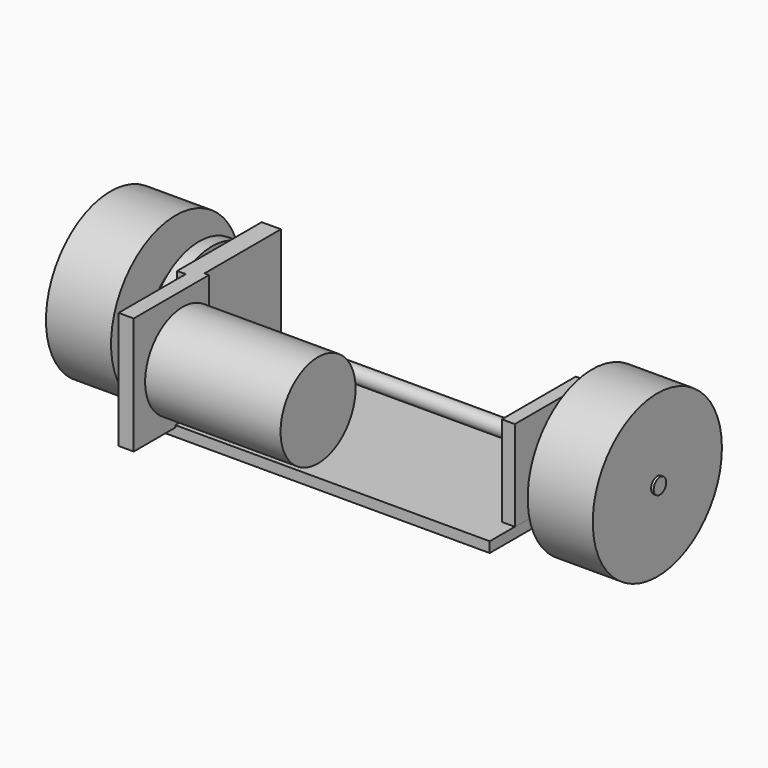
from build123d import *

# Parameters (mm, degrees)
F1_R      = 31
F2_DEPTH  = 25
F5_R      = 3
F6_DEPTH  = 106
F7_R      = 25.1
F8_DEPTH  = 5
F10_W     = 62
F10_H     = 4
F11_DEPTH = 65
F13_DEPTH = 45
F15_R     = 18
F16_DEPTH = 52
F18_R     = 3.526996
F19_DEPTH = 15
F22_W     = 35.481527
F22_H     = 34.792565
F23_DEPTH = 5


with BuildPart() as f2:
    # F1 (on Right) → F2 (new body)
    with BuildSketch(Plane.YZ):
        with Locations((0, 31)):
            Circle(F1_R)
    extrude(amount=F2_DEPTH)


with BuildPart() as f2_1:
    # F3: moved
    add(f2.part.moved(Location((80, 0, 0))))


with BuildPart() as f4_1:
    # F4: instance of F2
    add(f2_1.part.mirror(Plane.YZ))


with BuildPart() as f6:
    # F5 (on Right) → F6 (new body, symmetric)
    with BuildSketch(Plane.YZ):
        with Locations((0, 31)):
            Circle(F5_R)
    extrude(amount=F6_DEPTH, both=True)


with BuildPart() as f8:
    # F7 (on Right) → F8 (new body)
    with BuildSketch(Plane.YZ):
        with Locations((0, 31)):
            Circle(F7_R)
    extrude(amount=F8_DEPTH)


with BuildPart() as f8_1:
    # F9: moved
    add(f8.part.moved(Location((-76, 0, 0))))


with BuildPart() as f11:
    # F10 (on Right) → F11 (new body, symmetric)
    with BuildSketch(Plane.YZ):
        with Locations((0.53132, 9.346538)):
            Rectangle(F10_W, F10_H)
    extrude(amount=F11_DEPTH, both=True)


with BuildPart() as f13:
    # F12 (on offset) → F13 (new body)
    with BuildSketch(Plane.XY.offset(7.5)):
        Polygon((-62.484965, 22.414448), (-69.875456, 22.414448), (-69.875456, -18.169224), (-66.574976, -18.169224), (-66.574976, -50.419163), (-60.757942, -50.419163), (-60.757942, -14.257547), (-62.484965, -14.257547), align=None)
    extrude(amount=F13_DEPTH)


with BuildPart() as f13_1:
    # F14: moved
    add(f13.part.moved(Location((0, 0, 3))))


with BuildPart() as f16:
    # F15 (on Right) → F16 (new body)
    with BuildSketch(Plane.YZ):
        with Locations((-30.879457, 32.479201)):
            Circle(F15_R)
    extrude(amount=F16_DEPTH)


with BuildPart() as f16_1:
    # F17: moved
    add(f16.part.moved(Location((-60, 0, 0))))


with BuildPart() as f19:
    # F18 (on Right) → F19 (new body)
    with BuildSketch(Plane.YZ):
        with Locations((-30.622737, 32.000303)):
            Circle(F18_R)
    extrude(amount=F19_DEPTH)


with BuildPart() as f19_1:
    # F20: moved
    add(f19.part.moved(Location((-76, 0, 0))))


with BuildPart() as f19_2:
    # F21: moved
    add(f19_1.part.moved(Location((0, 3, 0))))


with BuildPart() as f16_2:
    # F21: moved
    add(f16_1.part.moved(Location((0, 3, 0))))


with BuildPart() as f23:
    # F22 (on Right) → F23 (new body)
    with BuildSketch(Plane.YZ):
        with Locations((-0.67508, 28.661907)):
            Rectangle(F22_W, F22_H)
    extrude(amount=F23_DEPTH)


with BuildPart() as f23_1:
    # F24: moved
    add(f23.part.moved(Location((65, 0, 0))))


with BuildPart() as f8_2:
    # F25: moved
    add(f8_1.part.moved(Location((5, 0, 0))))


with BuildPart() as f19_3:
    # F25: moved
    add(f19_2.part.moved(Location((5, 0, 0))))


with BuildPart() as f16_3:
    # F25: moved
    add(f16_2.part.moved(Location((5, 0, 0))))


with BuildPart() as f13_2:
    # F25: moved
    add(f13_1.part.moved(Location((5, 0, 0))))


with BuildPart() as f23_2:
    # F26: moved
    add(f23_1.part.moved(Location((-5, 0, 0))))


with BuildPart() as f28:
    # F27 (on Front) → F28 (revolve)
    with BuildSketch(Plane.XZ):
        Polygon((-97.899601, 36.555666), (-97.899601, 30.915387), (-66.206597, 30.915387), (-66.206597, 39.510097), (-70.772544, 39.510097), (-70.772544, 50.656363), (-74.9356, 50.656363), (-74.9356, 40.047266), (-85.947581, 40.047266), (-85.947581, 36.555666), align=None)
    revolve(axis=Axis((-82.053099, 0, 30.915387), (1, 0, 0)))


solid = Compound([f2_1.part, f4_1.part, f6.part, f11.part, f8_2.part, f19_3.part, f16_3.part, f13_2.part, f23_2.part, f28.part])
